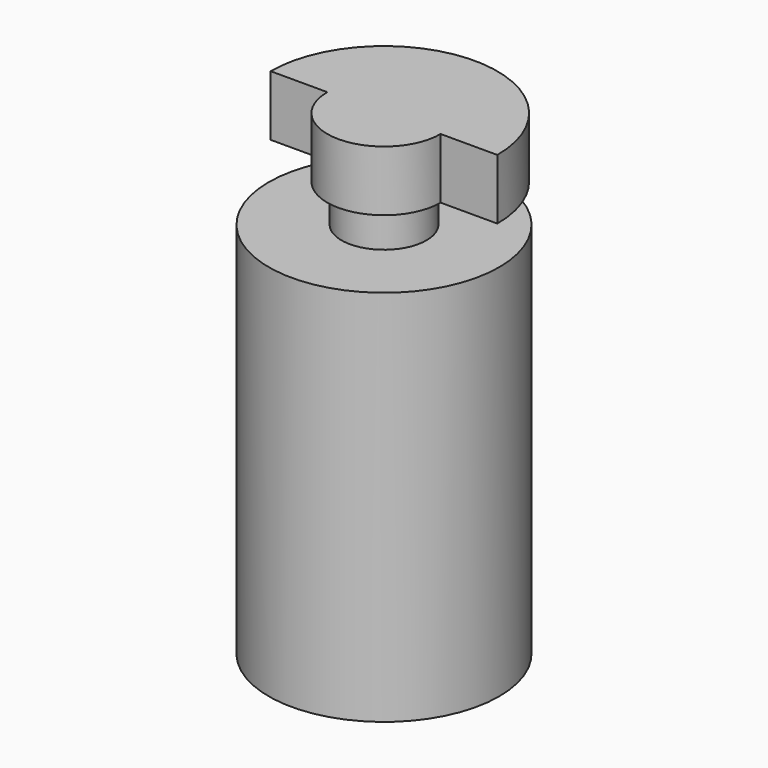
from build123d import *

# Parameters (mm, degrees)
F3_R     = 3.05
F4_DEPTH = 10
F5_R     = 1.125
F6_DEPTH = 1
F8_DEPTH = 1.6


with BuildPart() as f4:
    # F3 (on Top) → F4 (new body)
    with BuildSketch(Plane.XY):
        Circle(F3_R)
    extrude(amount=F4_DEPTH)

    # F5 (on face) → F6 (join)
    with BuildSketch(Plane.XY.offset(10)):
        Circle(F5_R)
    extrude(amount=F6_DEPTH)

    # F7 (on face) → F8 (join)
    with BuildSketch(Plane.XY.offset(11)):
        with BuildLine():
            ThreePointArc((3, 0), (0, 3), (-3, 0))
            Line((-3, 0), (-1.5, 0))
            Line((-1.5, 0), (1.5, 0))
            Line((1.5, 0), (3, 0))
        make_face()
        with BuildLine():
            Line((1.5, 0), (-1.5, 0))
            ThreePointArc((-1.5, 0), (0, -1.5), (1.5, 0))
        make_face()
    extrude(amount=F8_DEPTH)


solid = f4.part
